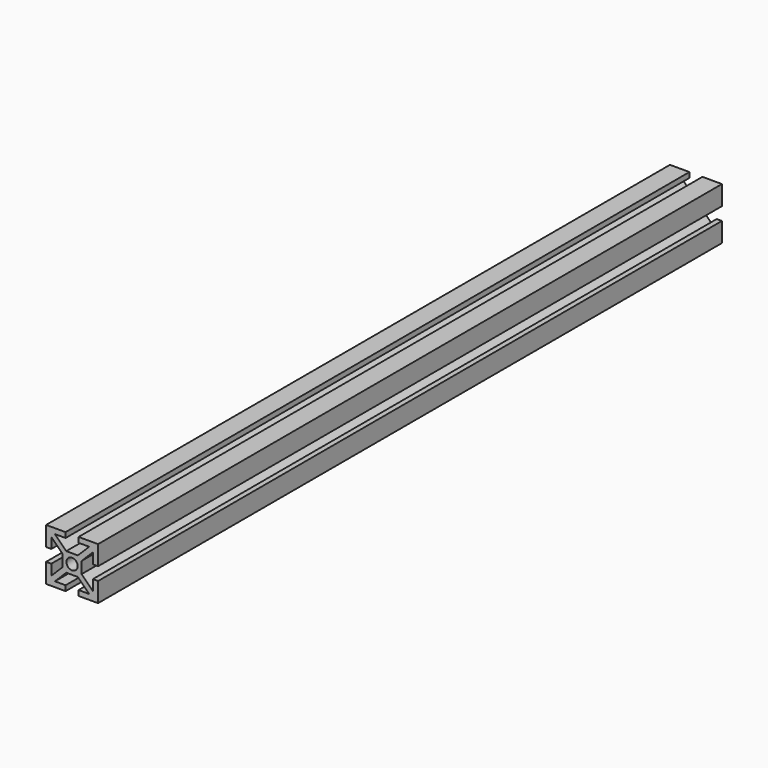
from build123d import *

# Parameters (mm, degrees)
F1_DEPTH      = 150
F1_DEPTH_BACK = 150


with BuildPart() as f1:
    # F0 (on Front) → F1 (new body, two sides)
    with BuildSketch(Plane.XZ) as f1_sk:
        Polygon((-2.238045, 9.768403), (-9.738045, 9.768403), (-9.738045, 2.268403), (-7.738045, 2.268403), (-7.738045, 6.35419), (-3.388045, 2.00419), (-3.388045, -0.231597), (-3.388045, -2.467383), (-7.738045, -6.817383), (-7.738045, -2.731597), (-9.738045, -2.731597), (-9.738045, -10.231597), (-2.238045, -10.231597), (-2.238045, -8.231597), (-6.323832, -8.231597), (-1.973832, -3.881597), (2.497741, -3.881597), (6.847741, -8.231597), (2.761955, -8.231597), (2.761955, -10.231597), (10.261955, -10.231597), (10.261955, -2.731597), (8.261955, -2.731597), (8.261955, -6.817383), (3.911955, -2.467383), (3.911955, -0.231597), (3.911955, 2.00419), (8.261955, 6.35419), (8.261955, 2.268403), (10.261955, 2.268403), (10.261955, 9.768403), (2.761955, 9.768403), (2.761955, 7.768403), (6.847741, 7.768403), (2.497741, 3.418403), (-1.973832, 3.418403), (-6.323832, 7.768403), (-2.238045, 7.768403), align=None)
        with BuildLine():
            ThreePointArc((-1.888045, -0.231597), (0.261955, 1.918403), (2.411955, -0.231597))
            ThreePointArc((2.411955, -0.231597), (0.261955, -2.381597), (-1.888045, -0.231597))
        make_face(mode=Mode.SUBTRACT)
    extrude(amount=F1_DEPTH)
    extrude(f1_sk.sketch, amount=-F1_DEPTH_BACK)


solid = f1.part
